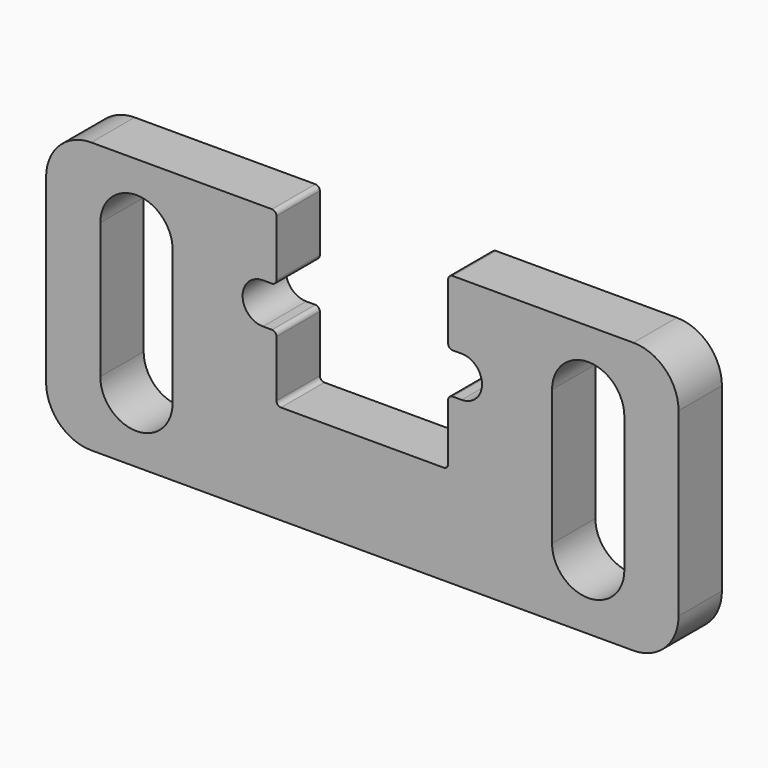
from build123d import *

# Parameters (mm, degrees)
F1_DEPTH = 6


with BuildPart() as f1:
    # F0 (on Front) → F1 (new body)
    with BuildSketch(Plane.XZ):
        with BuildLine():
            Line((0, -9.5), (-9, -9.5))
            ThreePointArc((-9, -9.5), (-9.353553, -9.353553), (-9.5, -9))
            Line((-9.5, -9), (-9.5, -2.75))
            ThreePointArc((-9.5, -2.75), (-9.646447, -2.396447), (-10, -2.25))
            Line((-10, -2.25), (-11, -2.25))
            ThreePointArc((-11, -2.25), (-13.25, 0), (-11, 2.25))
            Line((-11, 2.25), (-10, 2.25))
            ThreePointArc((-10, 2.25), (-9.646447, 2.396447), (-9.5, 2.75))
            Line((-9.5, 2.75), (-9.5, 9))
            ThreePointArc((-9.5, 9), (-9.646447, 9.353553), (-10, 9.5))
            Line((-10, 9.5), (-30, 9.5))
            ThreePointArc((-30, 9.5), (-33.535534, 8.035534), (-35, 4.5))
            Line((-35, 4.5), (-35, -15.5))
            ThreePointArc((-35, -15.5), (-33.535534, -19.035534), (-30, -20.5))
            Line((-30, -20.5), (0, -20.5))
            Line((0, -20.5), (30, -20.5))
            ThreePointArc((30, -20.5), (33.535534, -19.035534), (35, -15.5))
            Line((35, -15.5), (35, 4.5))
            ThreePointArc((35, 4.5), (33.535534, 8.035534), (30, 9.5))
            Line((30, 9.5), (10, 9.5))
            ThreePointArc((10, 9.5), (9.646447, 9.353553), (9.5, 9))
            Line((9.5, 9), (9.5, 2.75))
            ThreePointArc((9.5, 2.75), (9.646447, 2.396447), (10, 2.25))
            Line((10, 2.25), (11, 2.25))
            ThreePointArc((11, 2.25), (13.25, 0), (11, -2.25))
            Line((11, -2.25), (10, -2.25))
            ThreePointArc((10, -2.25), (9.646447, -2.396447), (9.5, -2.75))
            Line((9.5, -2.75), (9.5, -9))
            ThreePointArc((9.5, -9), (9.353553, -9.353553), (9, -9.5))
            Line((9, -9.5), (0, -9.5))
        make_face()
        with BuildLine():
            Line((-29, -13), (-29, 2))
            ThreePointArc((-29, 2), (-25, 6), (-21, 2))
            Line((-21, 2), (-21, -13))
            ThreePointArc((-21, -13), (-25, -17), (-29, -13))
        make_face(mode=Mode.SUBTRACT)
        with BuildLine():
            ThreePointArc((21, 2), (25, 6), (29, 2))
            Line((29, 2), (29, -13))
            ThreePointArc((29, -13), (25, -17), (21, -13))
            Line((21, -13), (21, 2))
        make_face(mode=Mode.SUBTRACT)
    extrude(amount=F1_DEPTH)


solid = f1.part
